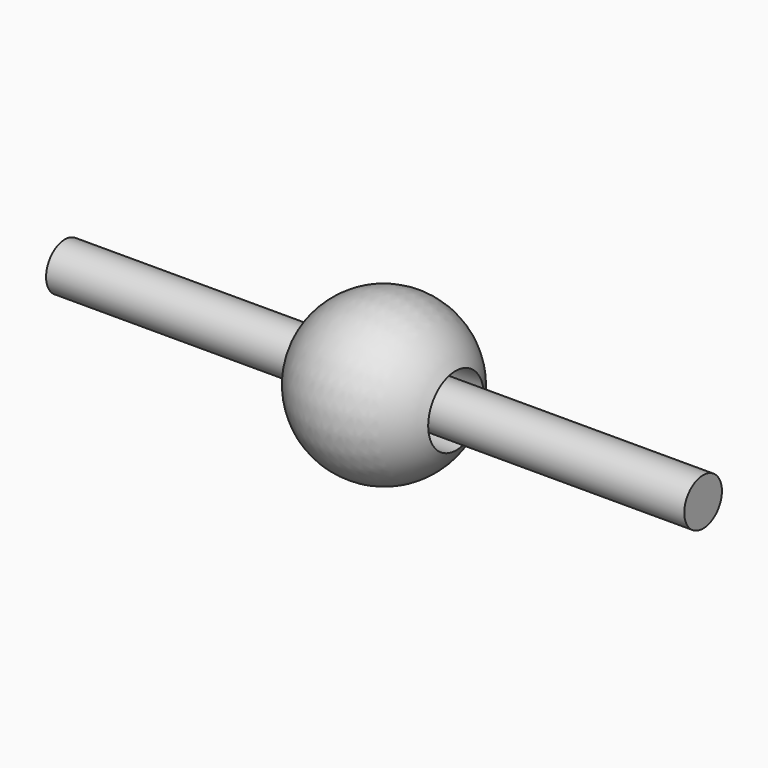
from build123d import *

# Parameters (mm, degrees)
F2_R     = 16.868953
F3_DEPTH = 228.6


with BuildPart() as f1:
    # F0 (on Front) → F1 (revolve)
    with BuildSketch(Plane.XZ):
        with BuildLine():
            Line((51.899006, -24.878982), (-50.54073, -27.53371))
            ThreePointArc((-50.54073, -27.53371), (1.491014, -57.53475), (51.899006, -24.878982))
        make_face()
    revolve(axis=Axis((-2.642853, 0, -0.738043), (0.999908, 0, 0.013587)))


with BuildPart() as f3:
    # F2 (on Right) → F3 (new body, symmetric)
    with BuildSketch(Plane.YZ):
        Circle(F2_R)
        Circle(F2_R)
    extrude(amount=F3_DEPTH, both=True)


solid = Compound([f1.part, f3.part])
